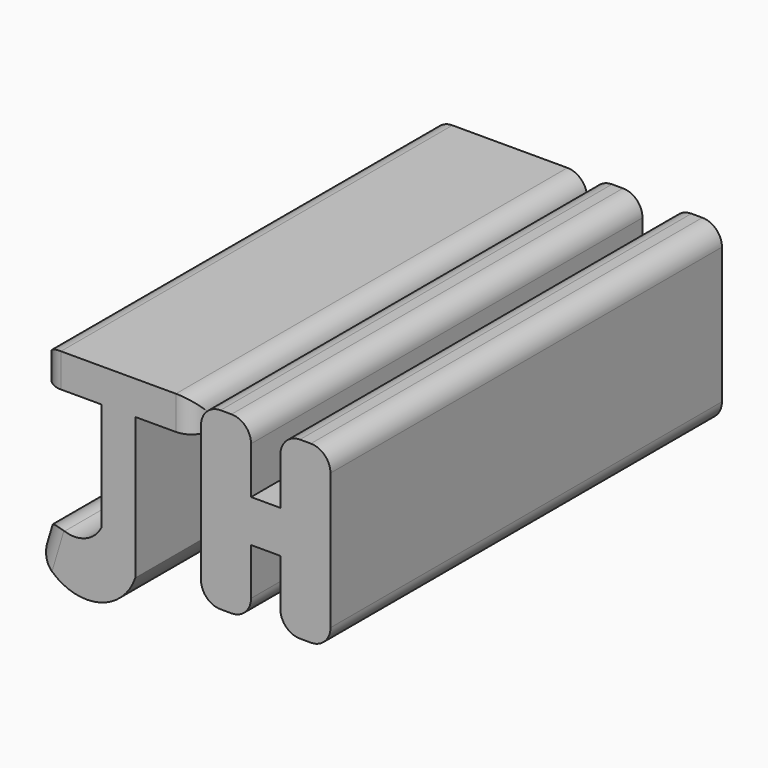
from build123d import *

# Parameters (mm, degrees)
F1_DEPTH = 63.5
F2_R     = 5.08


with BuildPart() as f1:
    # F0 (on Front) → F1 (new body, symmetric)
    with BuildSketch(Plane.XZ):
        with BuildLine():
            Line((-35.029758, 62.647425), (-75.03476, 62.647425))
            Line((-75.03476, 62.647425), (-75.03476, 53.91537))
            Line((-75.03476, 53.91537), (-59.398286, 53.91537))
            Line((-59.398286, 53.91537), (-59.398286, 25.891561))
            ThreePointArc((-59.398286, 25.891561), (-66.280406, 21.416262), (-73.410191, 25.485419))
            Line((-73.410191, 25.485419), (-75.907962, 17.159505))
            ThreePointArc((-75.907962, 17.159505), (-63.287097, 8.078677), (-50.666232, 17.159505))
            Line((-50.666232, 17.159505), (-50.666232, 53.91537))
            Line((-50.666232, 53.91537), (-35.029758, 53.91537))
            Line((-35.029758, 53.91537), (-35.029758, 62.647425))
        make_face()
        Polygon((-20.611713, 62.647425), (-33.608261, 62.647425), (-33.608261, 17.159505), (-20.611713, 17.159505), (-20.611713, 34.420546), (-12.996549, 34.420546), (-12.996549, 17.159505), (0, 17.159505), (0, 62.647425), (-12.996549, 62.647425), (-12.996549, 45.386383), (-20.611713, 45.386383), align=None)
    extrude(amount=F1_DEPTH, both=True)

    # F2
    f2_edges = [f1.edges().sort_by_distance(p)[0] for p in [
        (-74.659076, -63.5, 21.322462),
        (-75.03476, -63.5, 58.281397),
        (-75.03476, 0, 62.647425),
        (-35.029758, 0, 62.647425),
        (-35.029758, -63.5, 58.281397),
        (-73.410191, 0, 25.485419),
        (0, 0, 62.647425),
        (-12.996549, 0, 62.647425),
        (-20.611713, 0, 62.647425),
        (-33.608261, 0, 62.647425),
        (0, 0, 17.159505),
        (-20.611713, 0, 17.159505),
        (-33.608261, 0, 17.159505),
        (-12.996549, 0, 17.159505),
    ]]
    fillet(f2_edges, radius=F2_R)


solid = f1.part
